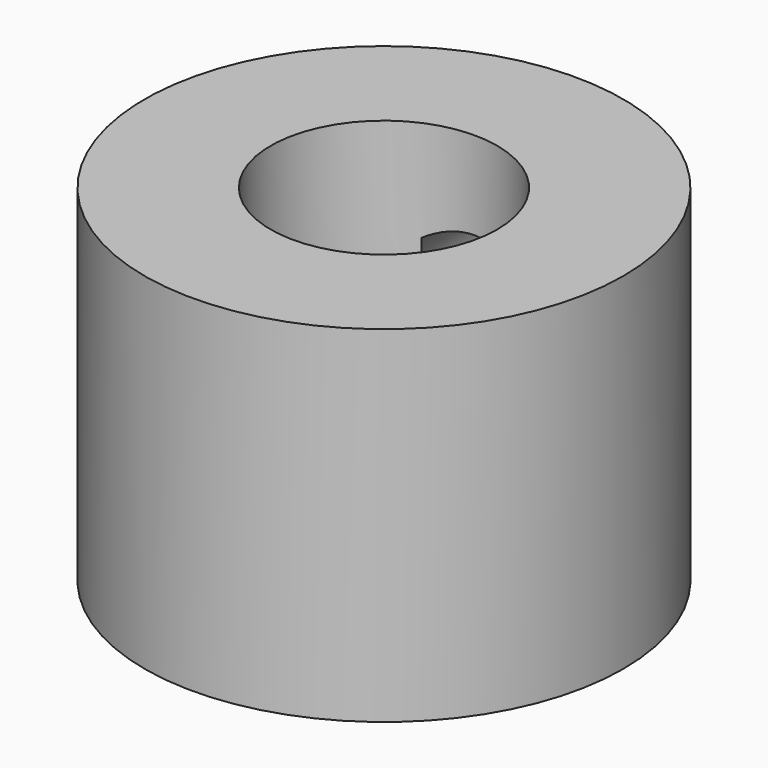
from build123d import *

# Parameters (mm, degrees)
F0_R          = 34.602453
F0_R_2        = 16.383423
F1_DEPTH      = 25
F1_DEPTH_BACK = 25
F3_R          = 12.283084
F4_DEPTH      = 25


with BuildPart() as f1:
    # F0 (on Top) → F1 (new body, two sides)
    with BuildSketch(Plane.XY) as f1_sk:
        Circle(F0_R)
        Circle(F0_R_2, mode=Mode.SUBTRACT)
    extrude(amount=F1_DEPTH)
    extrude(f1_sk.sketch, amount=-F1_DEPTH_BACK)

    # F3 (on offset) → F4 (cut)
    with BuildSketch(Plane.XZ.offset(-40)):
        Circle(F3_R)
    extrude(amount=F4_DEPTH, mode=Mode.SUBTRACT)


solid = f1.part
